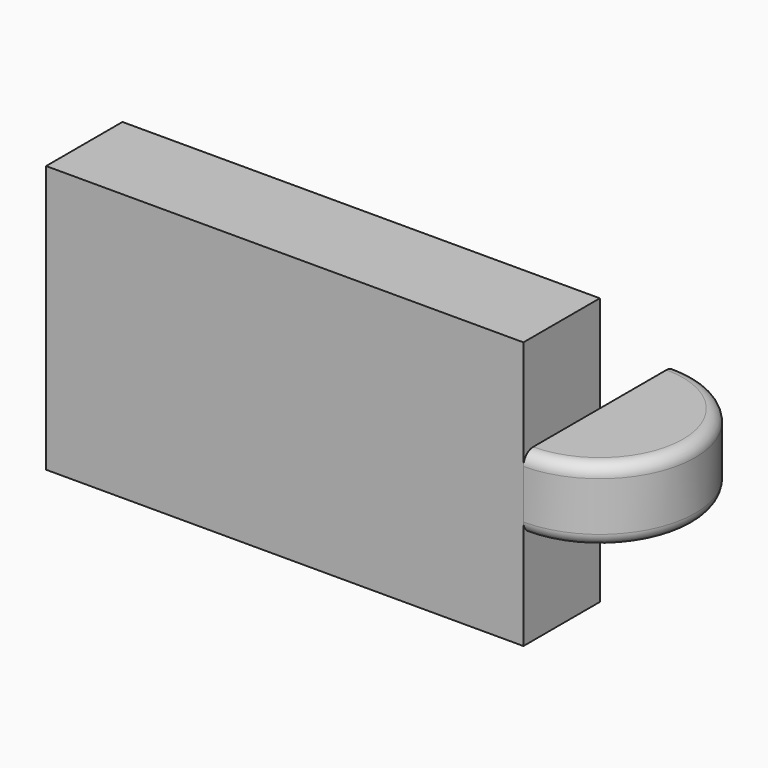
from build123d import *

# Parameters (mm, degrees)
F0_W     = 77.996812
F0_H     = 43.68491
F1_DEPTH = 7.8
F3_DEPTH = 6
F4_R     = 2


with BuildPart() as f1:
    # F0 (on Front) → F1 (new body, symmetric)
    with BuildSketch(Plane.XZ):
        Rectangle(F0_W, F0_H)
    extrude(amount=F1_DEPTH, both=True)

    # F2 (on Top) → F3 (join, symmetric)
    with BuildSketch(Plane.XY):
        with BuildLine():
            Line((38.998406, 7.8), (38.998406, -7.8))
            ThreePointArc((38.998406, -7.8), (54.598406, 7.8), (38.998406, 23.4))
            Line((38.998406, 23.4), (38.998406, 7.8))
        make_face()
    extrude(amount=F3_DEPTH, both=True)

    # F4
    f4_edges = [f1.edges().sort_by_distance(p)[0] for p in [
        (54.598406, 7.8, 6),
        (54.598406, 7.8, -6),
    ]]
    fillet(f4_edges, radius=F4_R)


solid = f1.part
